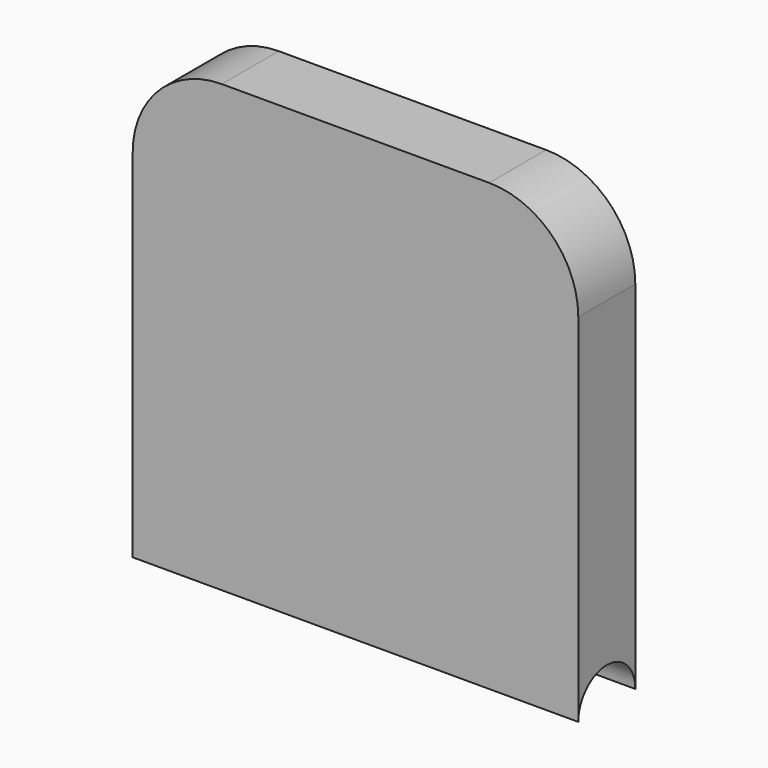
from build123d import *

# Parameters (mm, degrees)
F0_W     = 25
F0_H     = 25
F1_DEPTH = 4
F2_R     = 5
F4_D     = 4


with BuildPart() as f1:
    # F0 (on Front) → F1 (new body)
    with BuildSketch(Plane.XZ):
        with Locations((0, 12.5)):
            Rectangle(F0_W, F0_H)
    extrude(amount=F1_DEPTH)

    # F2
    f2_edges = [f1.edges().sort_by_distance(p)[0] for p in [
        (-12.5, -2, 25),
        (12.5, -2, 25),
    ]]
    fillet(f2_edges, radius=F2_R)

    # F4 (through all)
    with Locations(Plane.YZ.offset(12.5)):
        with Locations((-2, 0)):
            Hole(F4_D / 2)


solid = f1.part
